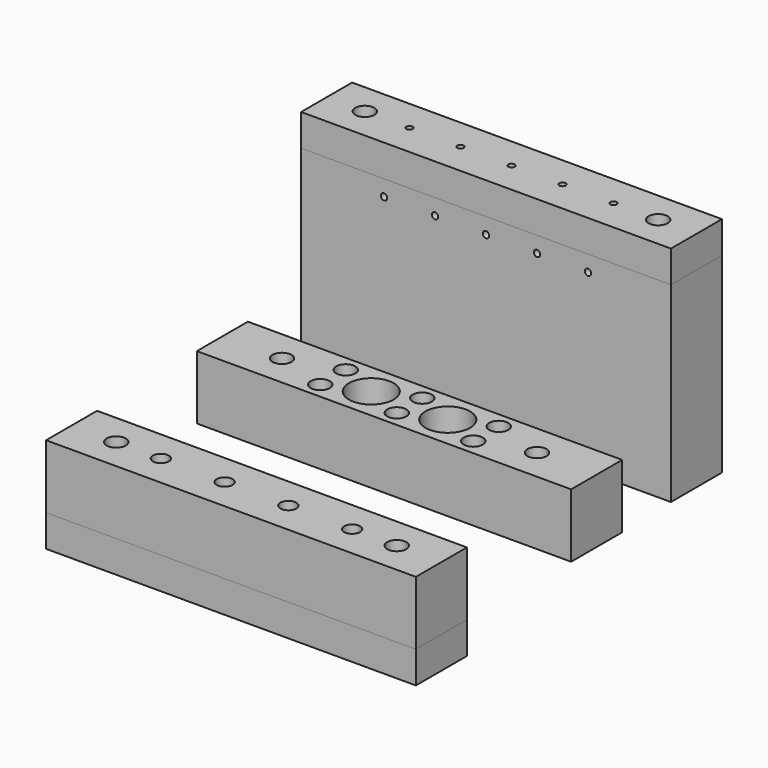
from build123d import *

# Parameters (mm, degrees)
F0_W      = 58.7
F0_H      = 10
F0_R      = 1.5
F0_R_2    = 3.5
F1_DEPTH  = 10
F2_W      = 58
F2_H      = 10
F2_R      = 1.5
F2_R_2    = 1.25
F3_DEPTH  = 10
F4_W      = 58
F4_H      = 10
F4_R      = 1.5
F4_R_2    = 1.25
F4_R_3    = 0.5
F5_DEPTH  = 5
F6_W      = 58
F6_H      = 10
F6_R      = 1.5
F6_R_2    = 1
F7_DEPTH  = 30
F8_W      = 58
F8_H      = 10
F8_R      = 1.5
F8_R_2    = 1
F8_R_3    = 0.5
F9_DEPTH  = 5
F10_R     = 0.5
F11_DEPTH = 6


with BuildPart() as f1:
    # F0 (on Top) → F1 (new body)
    with BuildSketch(Plane.XY):
        Rectangle(F0_W, F0_H)
        with Locations((-12, -2.5)):
            Circle(F0_R, mode=Mode.SUBTRACT)
        with Locations((0, -2.5)):
            Circle(F0_R, mode=Mode.SUBTRACT)
        with Locations((12, -2.5)):
            Circle(F0_R, mode=Mode.SUBTRACT)
        with Locations((-20, 0)):
            Circle(F0_R, mode=Mode.SUBTRACT)
        with Locations((-6, 0)):
            Circle(F0_R_2, mode=Mode.SUBTRACT)
        with Locations((-12, 2.5)):
            Circle(F0_R, mode=Mode.SUBTRACT)
        with Locations((6, 0)):
            Circle(F0_R_2, mode=Mode.SUBTRACT)
        with Locations((20, 0)):
            Circle(F0_R, mode=Mode.SUBTRACT)
        with Locations((0, 2.5)):
            Circle(F0_R, mode=Mode.SUBTRACT)
        with Locations((12, 2.5)):
            Circle(F0_R, mode=Mode.SUBTRACT)
    extrude(amount=F1_DEPTH)


with BuildPart() as f3:
    # F2 (on Top) → F3 (new body)
    with BuildSketch(Plane.XY):
        with Locations((0, -30)):
            Rectangle(F2_W, F2_H)
        with Locations((-22, -30)):
            Circle(F2_R, mode=Mode.SUBTRACT)
        with Locations((-15, -30)):
            Circle(F2_R_2, mode=Mode.SUBTRACT)
        with Locations((-5, -30)):
            Circle(F2_R_2, mode=Mode.SUBTRACT)
        with Locations((5, -30)):
            Circle(F2_R_2, mode=Mode.SUBTRACT)
        with Locations((15, -30)):
            Circle(F2_R_2, mode=Mode.SUBTRACT)
        with Locations((22, -30)):
            Circle(F2_R, mode=Mode.SUBTRACT)
    extrude(amount=F3_DEPTH)


with BuildPart() as f5:
    # F4 (on face) → F5 (new body)
    with BuildSketch(Plane(origin=(0, 0, 0), x_dir=(1, 0, 0), z_dir=(0, 0, -1))):
        with Locations((0, 30)):
            Rectangle(F4_W, F4_H)
        with Locations((-22, 30)):
            Circle(F4_R, mode=Mode.SUBTRACT)
        with Locations((-15, 30)):
            Circle(F4_R_2, mode=Mode.SUBTRACT)
        with Locations((-5, 30)):
            Circle(F4_R_2, mode=Mode.SUBTRACT)
        with Locations((5, 30)):
            Circle(F4_R_2, mode=Mode.SUBTRACT)
        with Locations((15, 30)):
            Circle(F4_R_2, mode=Mode.SUBTRACT)
        with Locations((22, 30)):
            Circle(F4_R, mode=Mode.SUBTRACT)
        with Locations((-15, 30)):
            Circle(F4_R_2)
        with Locations((-15, 30)):
            Circle(F4_R_3, mode=Mode.SUBTRACT)
        with Locations((-5, 30)):
            Circle(F4_R_2)
        with Locations((-5, 30)):
            Circle(F4_R_3, mode=Mode.SUBTRACT)
        with Locations((5, 30)):
            Circle(F4_R_2)
        with Locations((5, 30)):
            Circle(F4_R_3, mode=Mode.SUBTRACT)
        with Locations((15, 30)):
            Circle(F4_R_2)
        with Locations((15, 30)):
            Circle(F4_R_3, mode=Mode.SUBTRACT)
    extrude(amount=F5_DEPTH)


with BuildPart() as f7:
    # F6 (on Top) → F7 (new body)
    with BuildSketch(Plane.XY):
        with Locations((0, 20)):
            Rectangle(F6_W, F6_H)
        with Locations((-23, 20)):
            Circle(F6_R, mode=Mode.SUBTRACT)
        with Locations((-16, 20)):
            Circle(F6_R_2, mode=Mode.SUBTRACT)
        with Locations((-8, 20)):
            Circle(F6_R_2, mode=Mode.SUBTRACT)
        with Locations((0, 20)):
            Circle(F6_R_2, mode=Mode.SUBTRACT)
        with Locations((8, 20)):
            Circle(F6_R_2, mode=Mode.SUBTRACT)
        with Locations((16, 20)):
            Circle(F6_R_2, mode=Mode.SUBTRACT)
        with Locations((23, 20)):
            Circle(F6_R, mode=Mode.SUBTRACT)
    extrude(amount=F7_DEPTH)

    # F10 (on face) → F11 (cut)
    with BuildSketch(Plane.XZ.offset(-15)):
        with Locations((0, 2.5)):
            Circle(F10_R)
        with Locations((0, 27.5)):
            Circle(F10_R)
        with Locations((8, 2.5)):
            Circle(F10_R)
        with Locations((8, 27.5)):
            Circle(F10_R)
        with Locations((16, 2.5)):
            Circle(F10_R)
        with Locations((16, 27.5)):
            Circle(F10_R)
        with Locations((-8, 2.5)):
            Circle(F10_R)
        with Locations((-16, 27.5)):
            Circle(F10_R)
        with Locations((-16, 2.5)):
            Circle(F10_R)
        with Locations((-8, 27.5)):
            Circle(F10_R)
    extrude(amount=-F11_DEPTH, mode=Mode.SUBTRACT)


with BuildPart() as f9:
    # F8 (on face) → F9 (new body)
    with BuildSketch(Plane.XY.offset(30)):
        with Locations((0, 20)):
            Rectangle(F8_W, F8_H)
        with Locations((-23, 20)):
            Circle(F8_R, mode=Mode.SUBTRACT)
        with Locations((-16, 20)):
            Circle(F8_R_2, mode=Mode.SUBTRACT)
        with Locations((-8, 20)):
            Circle(F8_R_2, mode=Mode.SUBTRACT)
        with Locations((0, 20)):
            Circle(F8_R_2, mode=Mode.SUBTRACT)
        with Locations((8, 20)):
            Circle(F8_R_2, mode=Mode.SUBTRACT)
        with Locations((16, 20)):
            Circle(F8_R_2, mode=Mode.SUBTRACT)
        with Locations((23, 20)):
            Circle(F8_R, mode=Mode.SUBTRACT)
        with Locations((-16, 20)):
            Circle(F8_R_2)
        with Locations((-16, 20)):
            Circle(F8_R_3, mode=Mode.SUBTRACT)
        with Locations((-8, 20)):
            Circle(F8_R_2)
        with Locations((-8, 20)):
            Circle(F8_R_3, mode=Mode.SUBTRACT)
        with Locations((0, 20)):
            Circle(F8_R_2)
        with Locations((0, 20)):
            Circle(F8_R_3, mode=Mode.SUBTRACT)
        with Locations((8, 20)):
            Circle(F8_R_2)
        with Locations((8, 20)):
            Circle(F8_R_3, mode=Mode.SUBTRACT)
        with Locations((16, 20)):
            Circle(F8_R_2)
        with Locations((16, 20)):
            Circle(F8_R_3, mode=Mode.SUBTRACT)
    extrude(amount=F9_DEPTH)


solid = Compound([f1.part, f3.part, f5.part, f7.part, f9.part])
